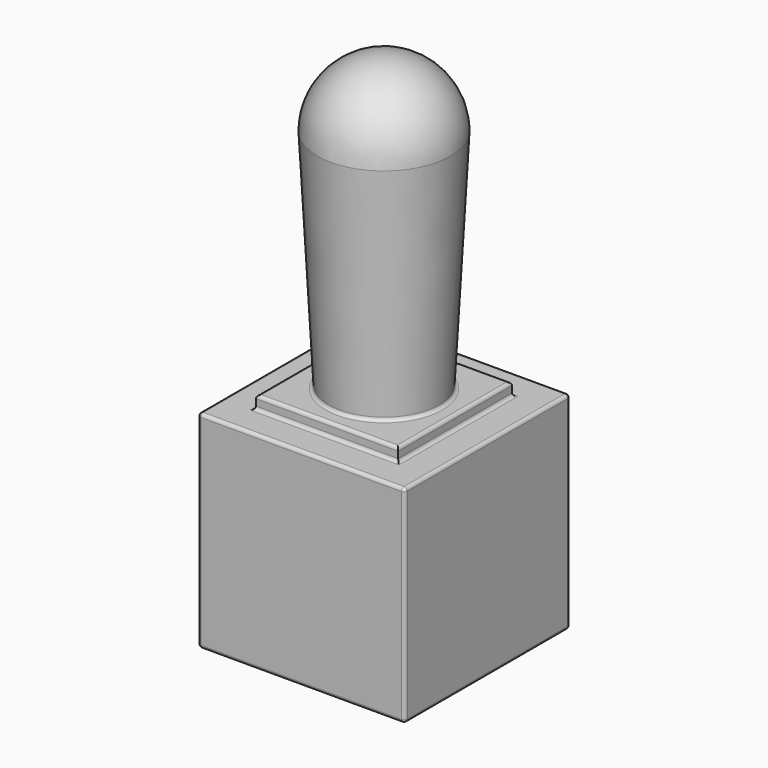
from build123d import *

# Parameters (mm, degrees)
F0_W     = 32
F0_H     = 32
F1_DEPTH = 32
F2_W     = 22
F2_H     = 22
F3_DEPTH = 2
F4_R     = 8.5
F5_DEPTH = 35
F5_TAPER = -3
F8_R     = 0.5
F9_R     = 0.5


with BuildPart() as f1:
    # F0 (on Top) → F1 (new body)
    with BuildSketch(Plane.XY):
        Rectangle(F0_W, F0_H)
    extrude(amount=F1_DEPTH)

    # F2 (on face) → F3 (join)
    with BuildSketch(Plane.XY.offset(32)):
        Rectangle(F2_W, F2_H)
    extrude(amount=F3_DEPTH)

    # F4 (on face) → F5 (join)
    with BuildSketch(Plane.XY.offset(34)):
        Circle(F4_R)
    extrude(amount=F5_DEPTH, taper=F5_TAPER)

    # F6 (on face) → F7 (revolve)
    with BuildSketch(Plane.XY.offset(69)):
        with BuildLine():
            ThreePointArc((10.3342722749, 0), (0, 10.3342722749), (-10.3342722749, 0))
            Line((-10.3342722749, 0), (0, 0))
            Line((0, 0), (10.3342722749, 0))
        make_face()
    revolve(axis=Axis((-5.1671361375, 0, 69), (1, 0, 0)))

    # F8
    f8_edges = [f1.edges().sort_by_distance(p)[0] for p in [
        (0, -11, 34),
        (11, 0, 34),
        (11, 0, 32),
        (0, -11, 32),
        (0, 16, 0),
        (0, 11, 32),
        (0, 11, 34),
        (-11, 0, 32),
        (-11, 0, 34),
        (-8.5, 0, 34),
    ]]
    fillet(f8_edges, radius=F8_R)

    # F9
    f9_edges = [f1.edges().sort_by_distance(p)[0] for p in [
        (0, -16, 32),
        (16, 0, 32),
        (16, -16, 16),
        (16, 16, 16.25),
        (-16, -16, 16),
        (0, -16, 0),
        (16, -0.25, 0),
        (0, 16, 32),
        (-16, 0, 32),
        (-16, -0.25, 0),
    ]]
    fillet(f9_edges, radius=F9_R)


solid = f1.part
